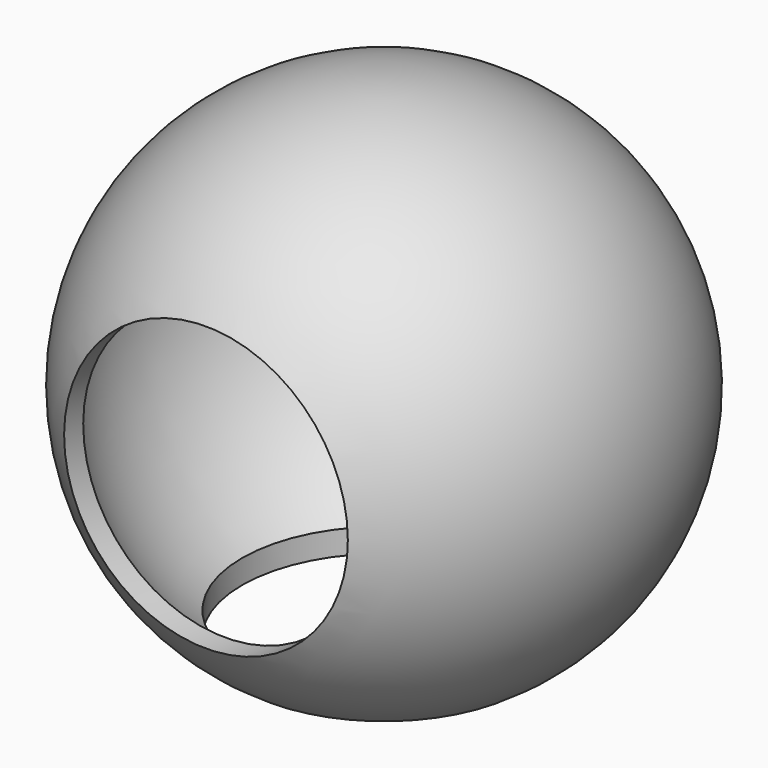
from build123d import *

# Parameters (mm, degrees)
F2_R          = 21.5
F3_DEPTH      = 40.001
F3_DEPTH_BACK = 40.001
F4_R          = 21.5
F5_DEPTH      = 40.001


with BuildPart() as f1:
    # F0 (on Front) → F1 (revolve)
    with BuildSketch(Plane.XZ):
        with BuildLine():
            Line((0, 37), (0, 40))
            ThreePointArc((0, 40), (-40, 0), (0, -40))
            Line((0, -40), (0, -37))
            ThreePointArc((0, -37), (-37, 0), (0, 37))
        make_face()
    revolve(axis=Axis((0, 0, -38.5), (0, 0, -1)))

    # F2 (on Front) → F3 (cut, two sides)
    with BuildSketch(Plane.XZ) as f3_sk:
        Circle(F2_R)
    extrude(amount=F3_DEPTH, mode=Mode.SUBTRACT)
    extrude(f3_sk.sketch, amount=-F3_DEPTH_BACK, mode=Mode.SUBTRACT)

    # F4 (on Top) → F5 (cut, through all)
    with BuildSketch(Plane.XY):
        Circle(F4_R)
    extrude(amount=-F5_DEPTH, mode=Mode.SUBTRACT)


solid = f1.part
